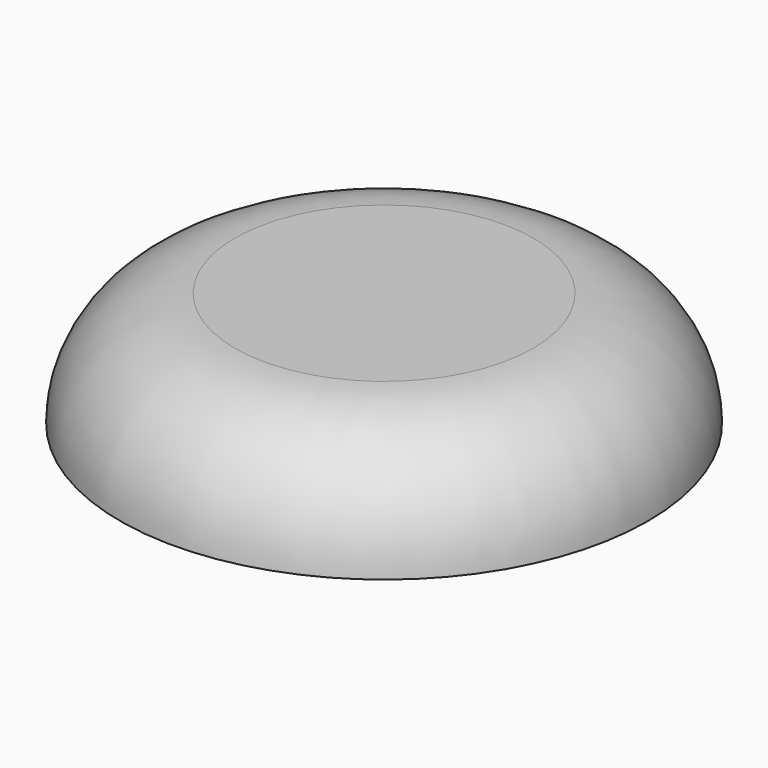
from build123d import *


with BuildPart() as part:
    # Sketch → Revolution (revolve)
    with BuildSketch(Plane.XZ):
        with BuildLine():
            Line((0, 0), (4.6, 0))
            ThreePointArc((4.6, 0), (4.014214, 1.414214), (2.6, 2))
            Line((2.6, 2), (0, 2))
            Line((0, 2), (0, 0))
        make_face()
    revolve(axis=Axis((0, 0, 0), (0, 0, 1)))


solid = part.part
